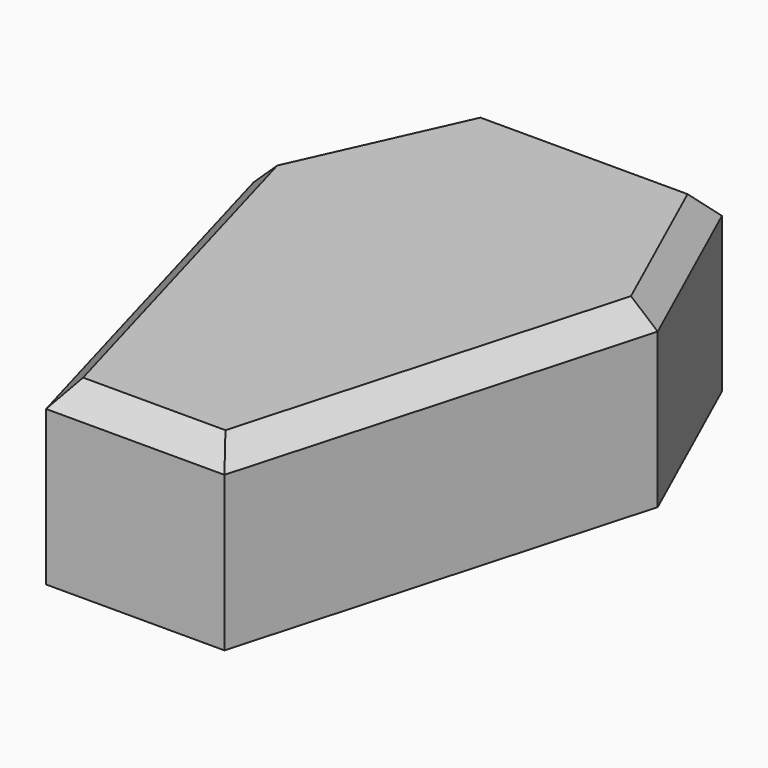
from build123d import *

# Parameters (mm, degrees)
F1_DEPTH = 38.1
F2_SIZE  = 5.08
F3_T     = -7.62


with BuildPart() as f1:
    # F0 (on Top) → F1 (new body)
    with BuildSketch(Plane.XY):
        Polygon((17.9854446539, 64.1556447676), (-32.8145553461, 64.1556447676), (-50.5846425152, 24.8016563801), (-26.4645553461, -60.7637069099), (11.6354446539, -60.7637069099), (35.7555318229, 24.8016563801), align=None)
    extrude(amount=F1_DEPTH)

    # F2
    f2_edges = [f1.edges().sort_by_distance(p)[0] for p in [
        (-41.699599, 44.478651, 38.1),
        (-7.414555, 64.155645, 38.1),
        (26.870488, 44.478651, 38.1),
        (23.695488, -17.981025, 38.1),
        (-38.524599, -17.981025, 38.1),
        (-7.414555, -60.763707, 38.1),
    ]]
    chamfer(f2_edges, length=F2_SIZE)

    # F3 (hollow: no face is removed)
    offset(amount=F3_T, kind=Kind.INTERSECTION, mode=Mode.SUBTRACT)


solid = f1.part
